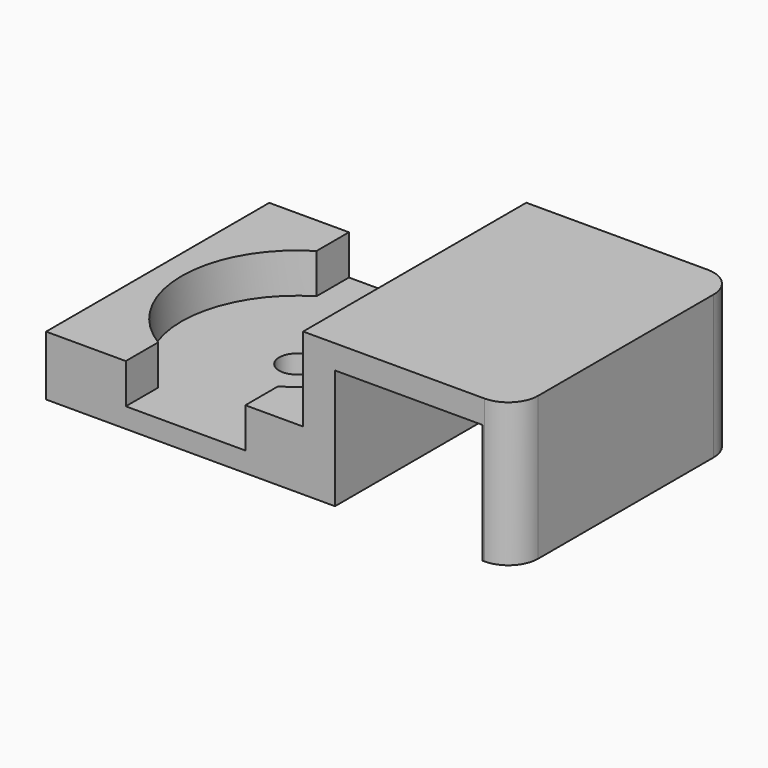
from build123d import *

# Parameters (mm, degrees)
PAD_DEPTH       = 7
SKETCH006_W     = 14
SKETCH006_H     = 14
PAD002_DEPTH    = 3
POCKET004_DEPTH = 2
SKETCH008_R     = 0.9
POCKET005_DEPTH = 1.001
FILLET_R        = 1.5


with BuildPart() as clamp_unit:
    # Sketch → Pad (new body, symmetric)
    with BuildSketch(Plane.XZ):
        Polygon((-3.7, 7.2), (5.3, 7.2), (5.3, 0), (3.7, 0), (3.7, 6), (-3.7, 6), (-3.7, 0), (-5.3, 0), (-5.3, 7.2), align=None)
    extrude(amount=PAD_DEPTH, both=True)


with BuildPart() as clone006:
    # Sketch006 → Pad002 (new body)
    with BuildSketch(Plane.XY):
        Rectangle(SKETCH006_W, SKETCH006_H)
    extrude(amount=PAD002_DEPTH)

    # Sketch007 → Pocket004 (cut)
    with BuildSketch(Plane.XY.offset(3)):
        with BuildLine():
            Line((-3, 7), (-3, 4.963869))
            ThreePointArc((-3, 4.963869), (-5.8, 0), (-3, -4.963869))
            Line((-3, -7), (-3, -4.963869))
            Line((3, -7), (-3, -7))
            Line((3, -4.963869), (3, -7))
            ThreePointArc((3, -4.963869), (5.8, 0), (3, 4.963869))
            Line((3, 7), (3, 4.963869))
            Line((-3, 7), (3, 7))
        make_face()
    extrude(amount=-POCKET004_DEPTH, mode=Mode.SUBTRACT)

    # Sketch008 → Pocket005 (cut, through all)
    with BuildSketch(Plane.XY.offset(1)):
        Circle(SKETCH008_R)
    extrude(amount=-POCKET005_DEPTH, mode=Mode.SUBTRACT)


with BuildPart() as clone006_1:
    # Clone placement: moved
    add(clone006.part.moved(Location((-11.2, 0, 0))))

    # Fusion: union clamp-unit
    add(clamp_unit.part)

    # Fillet
    fillet_edges = [clone006_1.edges().sort_by_distance(p)[0] for p in [
        (-8.2, 7, 2),
        (-8.2, 5.981935, 3),
        (5.3, 7, 3.6),
        (5.3, -7, 3.6),
    ]]
    fillet(fillet_edges, radius=FILLET_R)


with BuildPart() as clone006_2:
    # Clone006 placement: moved
    add(clone006_1.part.moved(Location((0, 30, 0))))


solid = clone006_2.part
